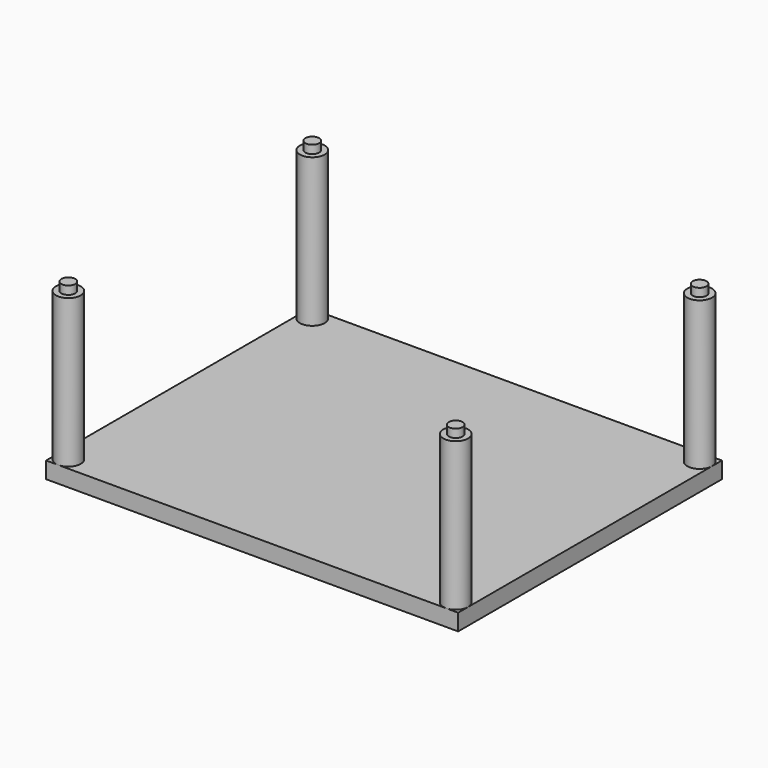
from build123d import *

# Parameters (mm, degrees)
F2_W     = 200
F2_H     = 10
F3_DEPTH = 125
F4_R     = 7.5
F5_DEPTH = 100
F6_R     = 4.5
F7_DEPTH = 6
F8_R     = 4.2
F9_DEPTH = 5


with BuildPart() as f3:
    # F2 (on Right) → F3 (new body, symmetric)
    with BuildSketch(Plane.YZ):
        with Locations((0, 5)):
            Rectangle(F2_W, F2_H)
    extrude(amount=F3_DEPTH, both=True)

    # F4 (on face) → F5 (join)
    with BuildSketch(Plane(origin=(0, 0, 0), x_dir=(1, 0, 0), z_dir=(0, 0, -1))):
        with Locations((-117.5, -92.5)):
            Circle(F4_R)
        with Locations((117.5, -92.5)):
            Circle(F4_R)
        with Locations((117.5, 92.5)):
            Circle(F4_R)
        with Locations((-117.5, 92.5)):
            Circle(F4_R)
    extrude(amount=-F5_DEPTH)

    # F6 (on face) → F7 (cut)
    with BuildSketch(Plane(origin=(0, 0, 0), x_dir=(1, 0, 0), z_dir=(0, 0, -1))):
        with Locations((-117.5, 92.5)):
            Circle(F6_R)
        with Locations((-117.5, -92.5)):
            Circle(F6_R)
        with Locations((117.5, 92.5)):
            Circle(F6_R)
        with Locations((117.5, -92.5)):
            Circle(F6_R)
    extrude(amount=-F7_DEPTH, mode=Mode.SUBTRACT)

    # F8 (on face) → F9 (join)
    with BuildSketch(Plane.XY.offset(100)):
        with Locations((-117.5, 92.5)):
            Circle(F8_R)
        with Locations((117.5, 92.5)):
            Circle(F8_R)
        with Locations((117.5, -92.5)):
            Circle(F8_R)
        with Locations((-117.5, -92.5)):
            Circle(F8_R)
    extrude(amount=F9_DEPTH)


solid = f3.part
